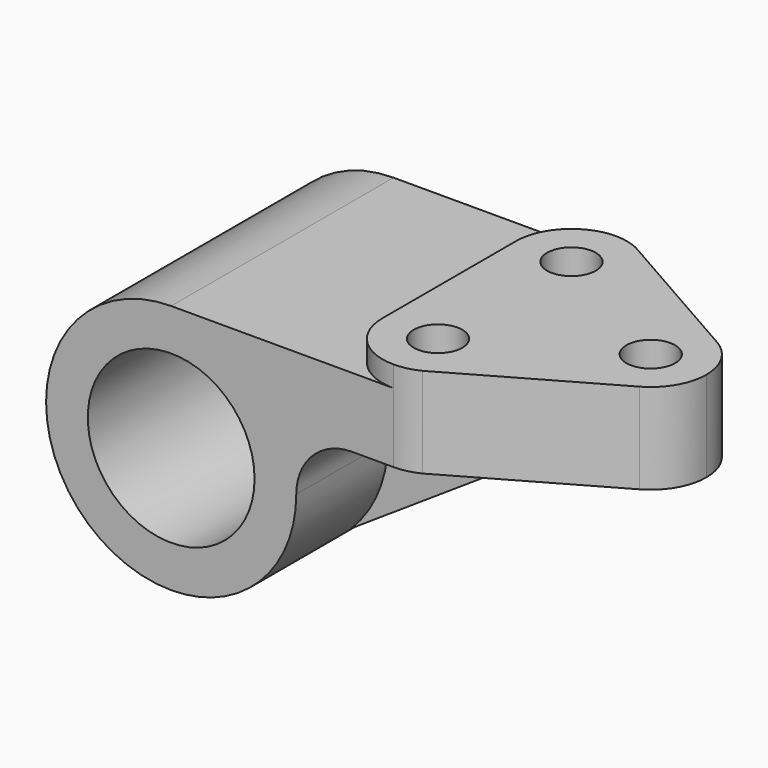
from build123d import *

# Parameters (mm, degrees)
F0_R     = 19.05
F1_DEPTH = 31.75
F2_R     = 5.5626
F3_DEPTH = 61.9262
F4_DEPTH = 4.7752
F5_DEPTH = 61.9262
F6_DEPTH = 5.5626


with BuildPart() as f1:
    # F0 (on Front) → F1 (new body, symmetric)
    with BuildSketch(Plane.XZ):
        with BuildLine():
            Line((38.1, 28.575), (0, 28.575))
            ThreePointArc((0, 28.575), (-28.575, 0), (0, -28.575))
            ThreePointArc((0, -28.575), (10.935179, -26.399858), (20.205576, -20.205576))
            ThreePointArc((20.205576, -20.205576), (26.399858, -10.935179), (28.575, 0))
            ThreePointArc((28.575, 0), (32.294744, 8.980256), (41.275, 12.7))
            Line((41.275, 12.7), (69.85, 12.7))
            Line((69.85, 12.7), (96.8502, 12.7))
            Line((96.8502, 12.7), (96.8502, 33.3502))
            Line((96.8502, 33.3502), (38.1, 33.3502))
            Line((38.1, 33.3502), (38.1, 28.575))
        make_face()
        Circle(F0_R, mode=Mode.SUBTRACT)
    extrude(amount=F1_DEPTH, both=True)

    # F2 (on face) → F3 (cut, through all)
    with BuildSketch(Plane.XY.offset(33.3502)):
        with Locations((50.8, 19.05)):
            Circle(F2_R)
        with Locations((50.8, -19.05)):
            Circle(F2_R)
        with Locations((84.1502, 0)):
            Circle(F2_R)
    extrude(amount=-F3_DEPTH, mode=Mode.SUBTRACT)

    # F2 (on face) → F4 (cut)
    with BuildSketch(Plane.XY.offset(33.3502)):
        with BuildLine():
            Line((38.1, 31.75), (38.1, 19.05))
            ThreePointArc((38.1, 19.05), (41.819744, 28.030256), (50.8, 31.75))
            Line((50.8, 31.75), (38.1, 31.75))
        make_face()
        with BuildLine():
            ThreePointArc((50.8, -31.75), (41.819744, -28.030256), (38.1, -19.05))
            Line((38.1, -19.05), (38.1, -31.75))
            Line((38.1, -31.75), (50.8, -31.75))
        make_face()
    extrude(amount=-F4_DEPTH, mode=Mode.SUBTRACT)

    # F2 (on face) → F5 (cut, through all)
    with BuildSketch(Plane.XY.offset(33.3502)):
        with BuildLine():
            Line((56.3626, 31.75), (56.3626, 30.466982))
            Line((56.3626, 30.466982), (90.441674, 11.032106))
            ThreePointArc((90.441674, 11.032106), (95.131815, 6.379196), (96.8502, 0))
            Line((96.8502, 0), (96.8502, 31.75))
            Line((96.8502, 31.75), (56.3626, 31.75))
        make_face()
        with BuildLine():
            Line((90.441674, -11.032106), (56.3626, -30.466982))
            Line((56.3626, -30.466982), (56.3626, -31.75))
            Line((56.3626, -31.75), (96.8502, -31.75))
            Line((96.8502, -31.75), (96.8502, 0))
            ThreePointArc((96.8502, 0), (95.131815, -6.379196), (90.441674, -11.032106))
        make_face()
        with BuildLine():
            ThreePointArc((56.3626, -30.466982), (53.654324, -31.425089), (50.8, -31.75))
            Line((50.8, -31.75), (56.3626, -31.75))
            Line((56.3626, -31.75), (56.3626, -30.466982))
        make_face()
        with BuildLine():
            Line((56.3626, 31.75), (50.8, 31.75))
            ThreePointArc((50.8, 31.75), (53.654324, 31.425089), (56.3626, 30.466982))
            Line((56.3626, 30.466982), (56.3626, 31.75))
        make_face()
    extrude(amount=-F5_DEPTH, mode=Mode.SUBTRACT)

    # F0 (on Front) → F6 (join, symmetric)
    with BuildSketch(Plane.XZ):
        with BuildLine():
            ThreePointArc((28.575, 0), (26.399858, -10.935179), (20.205576, -20.205576))
            Line((20.205576, -20.205576), (69.85, 12.7))
            Line((69.85, 12.7), (41.275, 12.7))
            ThreePointArc((41.275, 12.7), (32.294744, 8.980256), (28.575, 0))
        make_face()
    extrude(amount=F6_DEPTH, both=True)


solid = f1.part
